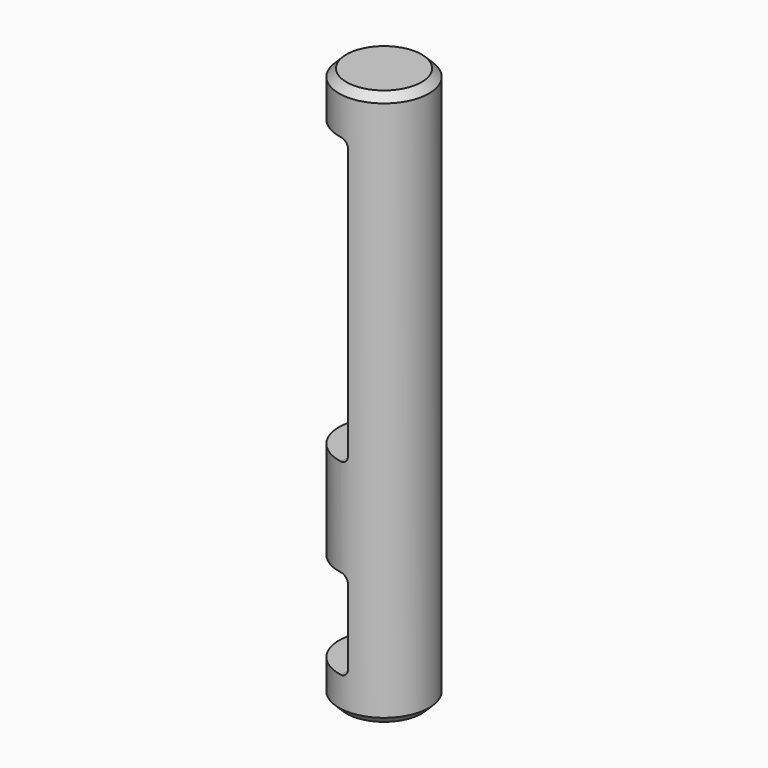
from build123d import *

# Parameters (mm, degrees)
F0_R     = 3
F1_DEPTH = 37
F2_W     = 3
F2_H     = 19
F2_H_2   = 6
F3_DEPTH = 12.5
F4_SIZE  = 0.5
F5_R     = 0.5


with BuildPart() as f1:
    # F0 (on Top) → F1 (new body)
    with BuildSketch(Plane.XY):
        Circle(F0_R)
    extrude(amount=F1_DEPTH)

    # F2 (on Front) → F3 (cut, symmetric)
    with BuildSketch(Plane.XZ):
        with Locations((-1.5, 24.5)):
            Rectangle(F2_W, F2_H)
        with Locations((-1.5, 5.5)):
            Rectangle(F2_W, F2_H_2)
    extrude(amount=F3_DEPTH, both=True, mode=Mode.SUBTRACT)

    # F4
    f4_edges = [f1.edges().sort_by_distance(p)[0] for p in [
        (-3, 0, 37),
        (-3, 0, 0),
    ]]
    chamfer(f4_edges, length=F4_SIZE)

    # F5
    f5_edges = [f1.edges().sort_by_distance(p)[0] for p in [
        (0, 0, 8.5),
        (0, 0, 2.5),
        (0, 0, 15),
        (0, 0, 34),
    ]]
    fillet(f5_edges, radius=F5_R)


solid = f1.part
